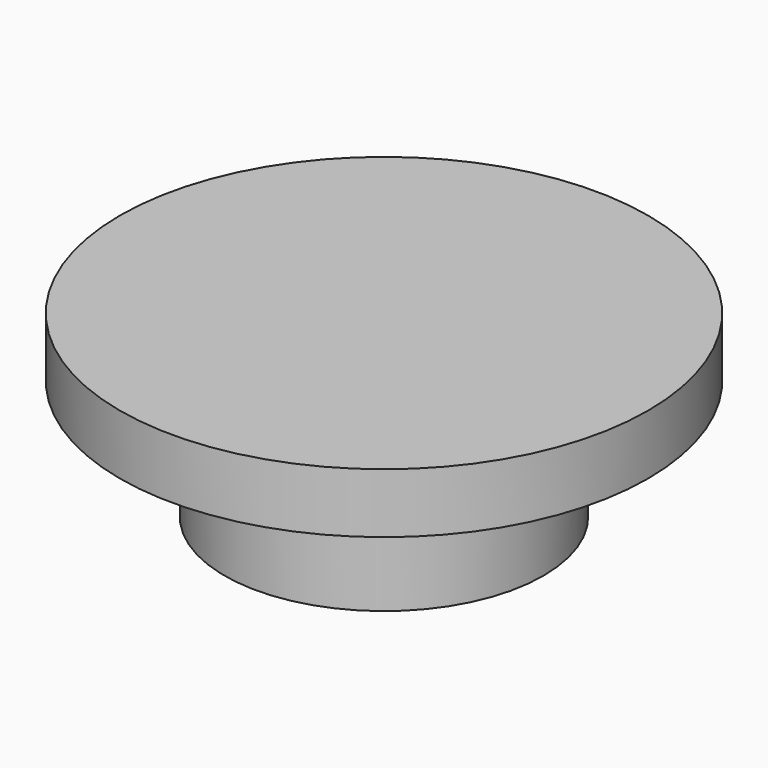
from build123d import *

# Parameters (mm, degrees)
F0_R     = 6.625
F0_R_2   = 4
F1_DEPTH = 1.5
F2_DEPTH = 3
F3_T     = -1


with BuildPart() as f1:
    # F0 (on Top) → F1 (new body)
    with BuildSketch(Plane.XY):
        Circle(F0_R)
        Circle(F0_R_2, mode=Mode.SUBTRACT)
        Circle(F0_R_2)
    extrude(amount=F1_DEPTH)

    # F0 (on Top) → F2 (join)
    with BuildSketch(Plane.XY):
        Circle(F0_R_2)
    extrude(amount=-F2_DEPTH)

    # F3
    f3_openings = [f1.faces().sort_by_distance(p)[0] for p in [
        (0, 0, -3),
    ]]
    offset(amount=F3_T, openings=f3_openings, kind=Kind.INTERSECTION)


solid = f1.part
